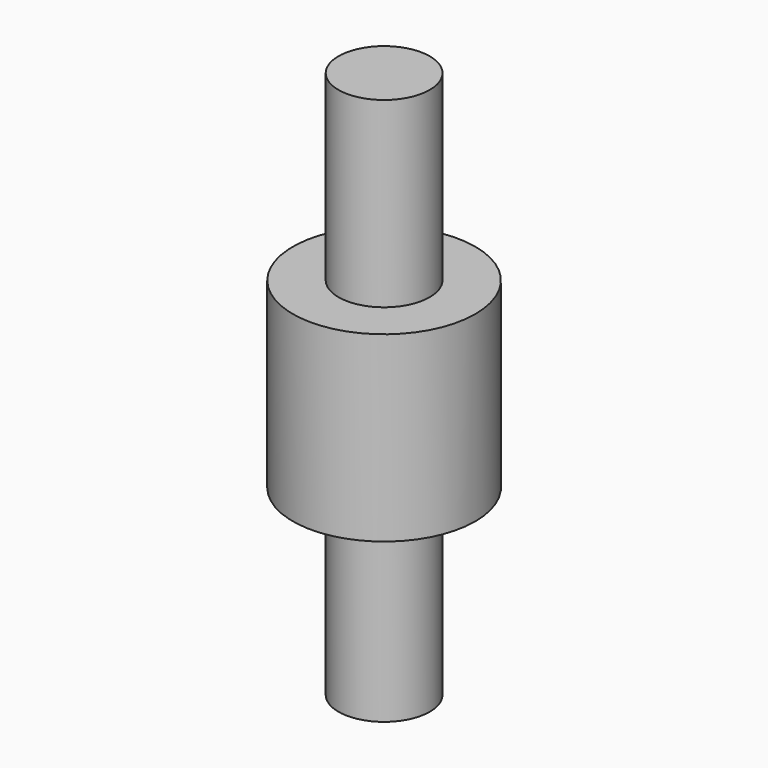
from build123d import *

# Parameters (mm, degrees)
TUBE_R         = 0.5
TUBE_R_2       = 0.25
TUBE_DEPTH     = 1
CYLINDER_R     = 0.25
CYLINDER_DEPTH = 3


with BuildPart() as tube:
    # Tube → Tube (new body)
    with BuildSketch(Plane.XY):
        Circle(TUBE_R)
        Circle(TUBE_R_2, mode=Mode.SUBTRACT)
    extrude(amount=TUBE_DEPTH)


with BuildPart() as cylinder:
    # Cylinder → Cylinder (new body)
    with BuildSketch(Plane.XY.offset(-1)):
        Circle(CYLINDER_R)
    extrude(amount=CYLINDER_DEPTH)


solid = Compound([tube.part, cylinder.part])
